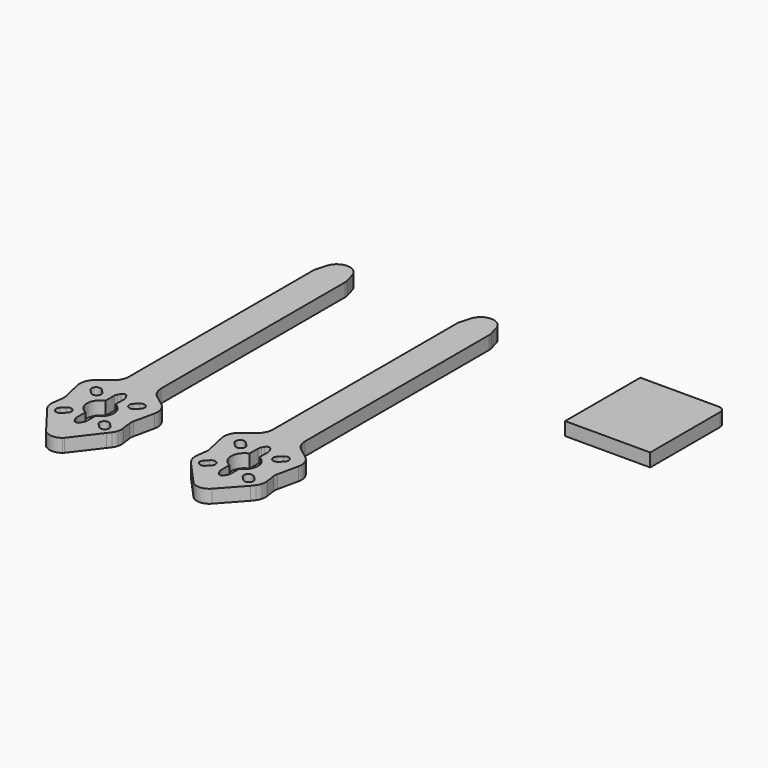
from build123d import *

# Parameters (mm, degrees)
F1_DEPTH = 4


with BuildPart() as f1:
    # F0 (on Top) → F1 (new body)
    with BuildSketch(Plane.XY):
        with BuildLine():
            ThreePointArc((-10.558655, -52.331149), (-10.284312, -53.070409), (-9.870278, -53.741488))
            Line((-9.870278, -53.741488), (-9.079032, -54.779026))
            Line((-9.079032, -54.779026), (-2.866229, -61.63786))
            ThreePointArc((-2.866229, -61.63786), (-0.099999, -62.864533), (2.666231, -61.63786))
            Line((2.666231, -61.63786), (8.879034, -54.779026))
            Line((8.879034, -54.779026), (9.67028, -53.741488))
            ThreePointArc((9.67028, -53.741488), (10.084314, -53.070409), (10.358657, -52.331149))
            ThreePointArc((10.358657, -52.331149), (10.512135, -51.366067), (10.472941, -50.389644))
            Line((10.472941, -50.389644), (10.083805, -47.608834))
            ThreePointArc((10.083805, -47.608834), (10.048183, -46.900192), (10.138329, -46.196405))
            Line((10.138329, -46.196405), (11.521367, -39.899416))
            ThreePointArc((11.521367, -39.899416), (11.332862, -37.257928), (9.738374, -35.143549))
            Line((9.738374, -35.143549), (6.780304, -32.932375))
            ThreePointArc((6.780304, -32.932375), (5.274798, -31.15986), (4.733962, -28.898034))
            Line((4.733962, -28.898034), (4.733962, -28.158009))
            Line((4.733962, -28.158009), (4.733962, -23.90792))
            Line((4.733962, -23.90792), (4.733962, 40.544426))
            ThreePointArc((4.733962, 40.544426), (4.69699, 41.087018), (4.586758, 41.61958))
            Line((4.586758, 41.61958), (3.773216, 44.534895))
            ThreePointArc((3.773216, 44.534895), (-0.057773, 47.459681), (-3.920425, 44.576841))
            Line((-3.920425, 44.576841), (-4.774804, 41.639293))
            ThreePointArc((-4.774804, 41.639293), (-4.893971, 41.086383), (-4.93396, 40.522192))
            Line((-4.93396, 40.522192), (-4.93396, -23.90792))
            Line((-4.93396, -23.90792), (-4.93396, -28.158009))
            Line((-4.93396, -28.158009), (-4.93396, -28.898034))
            ThreePointArc((-4.93396, -28.898034), (-5.474796, -31.15986), (-6.980302, -32.932375))
            Line((-6.980302, -32.932375), (-9.938372, -35.143549))
            ThreePointArc((-9.938372, -35.143549), (-11.53286, -37.257928), (-11.721365, -39.899416))
            Line((-11.721365, -39.899416), (-10.338327, -46.196405))
            ThreePointArc((-10.338327, -46.196405), (-10.248182, -46.900192), (-10.283803, -47.608834))
            Line((-10.283803, -47.608834), (-10.672939, -50.389644))
            ThreePointArc((-10.672939, -50.389644), (-10.712133, -51.366067), (-10.558655, -52.331149))
        make_face()
        with BuildLine():
            ThreePointArc((-6.711447, -50.502253), (-4.802259, -50.502253), (-4.802259, -52.411441))
            Line((-4.802259, -52.411441), (-5.862919, -53.472102))
            ThreePointArc((-5.862919, -53.472102), (-7.772108, -53.472102), (-7.772108, -51.562913))
            Line((-7.772108, -51.562913), (-6.711447, -50.502253))
        make_face(mode=Mode.SUBTRACT)
        with BuildLine():
            Line((5.662921, -53.472102), (4.602261, -52.411441))
            ThreePointArc((4.602261, -52.411441), (4.602261, -50.502253), (6.511449, -50.502253))
            Line((6.511449, -50.502253), (7.57211, -51.562913))
            ThreePointArc((7.57211, -51.562913), (7.57211, -53.472102), (5.662921, -53.472102))
        make_face(mode=Mode.SUBTRACT)
        with BuildLine():
            Line((1.400001, -49.586116), (1.400001, -52.782411))
            ThreePointArc((1.400001, -52.782411), (1.336215, -53.283486), (1.148925, -53.752599))
            Line((1.148925, -53.752599), (0.711944, -54.540329))
            ThreePointArc((0.711944, -54.540329), (-0.099999, -55.018422), (-0.911942, -54.540329))
            Line((-0.911942, -54.540329), (-1.348923, -53.752599))
            ThreePointArc((-1.348923, -53.752599), (-1.536213, -53.283486), (-1.599999, -52.782411))
            Line((-1.599999, -52.782411), (-1.599999, -49.586116))
            ThreePointArc((-1.599999, -49.586116), (-4.172434, -45.799993), (-1.599999, -42.01387))
            Line((-1.599999, -42.01387), (-1.599999, -38.817575))
            ThreePointArc((-1.599999, -38.817575), (-1.536213, -38.3165), (-1.348923, -37.847387))
            Line((-1.348923, -37.847387), (-0.911942, -37.059657))
            ThreePointArc((-0.911942, -37.059657), (-0.099999, -36.581564), (0.711944, -37.059657))
            Line((0.711944, -37.059657), (1.148925, -37.847387))
            ThreePointArc((1.148925, -37.847387), (1.336215, -38.3165), (1.400001, -38.817575))
            Line((1.400001, -38.817575), (1.400001, -42.01387))
            ThreePointArc((1.400001, -42.01387), (3.972436, -45.799993), (1.400001, -49.586116))
        make_face(mode=Mode.SUBTRACT)
        with BuildLine():
            ThreePointArc((-4.802259, -39.188545), (-4.802259, -41.097733), (-6.711447, -41.097733))
            Line((-6.711447, -41.097733), (-7.772108, -40.037073))
            ThreePointArc((-7.772108, -40.037073), (-7.772108, -38.127885), (-5.862919, -38.127885))
            Line((-5.862919, -38.127885), (-4.802259, -39.188545))
        make_face(mode=Mode.SUBTRACT)
        with BuildLine():
            Line((7.471188, -40.037073), (6.410528, -41.097733))
            ThreePointArc((6.410528, -41.097733), (4.50134, -41.097733), (4.50134, -39.188545))
            Line((4.50134, -39.188545), (5.562, -38.127885))
            ThreePointArc((5.562, -38.127885), (7.471188, -38.127885), (7.471188, -40.037073))
        make_face(mode=Mode.SUBTRACT)
        with BuildLine():
            Line((-2.866229, -61.63786), (-9.079032, -54.779026))
            Line((-9.079032, -54.779026), (-2.912687, -62.864774))
            ThreePointArc((-2.912687, -62.864774), (-2.727914, -63.074801), (-2.515644, -63.256993))
            ThreePointArc((-2.515644, -63.256993), (-0.099999, -64.056578), (2.315646, -63.256993))
            ThreePointArc((2.315646, -63.256993), (2.527916, -63.074801), (2.712689, -62.864774))
            Line((2.712689, -62.864774), (8.879034, -54.779026))
            Line((8.879034, -54.779026), (2.666231, -61.63786))
            ThreePointArc((2.666231, -61.63786), (-0.099999, -62.864533), (-2.866229, -61.63786))
        make_face()
        with BuildLine():
            ThreePointArc((32.874717, -52.189267), (33.14906, -52.928528), (33.563094, -53.599606))
            Line((33.563094, -53.599606), (34.35434, -54.637144))
            Line((34.35434, -54.637144), (40.567143, -61.495978))
            ThreePointArc((40.567143, -61.495978), (43.333373, -62.722652), (46.099603, -61.495978))
            Line((46.099603, -61.495978), (52.312406, -54.637144))
            Line((52.312406, -54.637144), (53.103652, -53.599606))
            ThreePointArc((53.103652, -53.599606), (53.517686, -52.928528), (53.792029, -52.189267))
            ThreePointArc((53.792029, -52.189267), (53.945507, -51.224186), (53.906313, -50.247763))
            Line((53.906313, -50.247763), (53.517177, -47.466953))
            ThreePointArc((53.517177, -47.466953), (53.481555, -46.75831), (53.571701, -46.054523))
            Line((53.571701, -46.054523), (54.954739, -39.757535))
            ThreePointArc((54.954739, -39.757535), (54.766234, -37.116047), (53.171745, -35.001667))
            Line((53.171745, -35.001667), (50.213676, -32.790494))
            ThreePointArc((50.213676, -32.790494), (48.70817, -31.017979), (48.167334, -28.756153))
            Line((48.167334, -28.756153), (48.167334, -28.016128))
            Line((48.167334, -28.016128), (48.167334, -23.766038))
            Line((48.167334, -23.766038), (48.167334, 40.686308))
            ThreePointArc((48.167334, 40.686308), (48.130362, 41.2289), (48.02013, 41.761462))
            Line((48.02013, 41.761462), (47.206588, 44.676777))
            ThreePointArc((47.206588, 44.676777), (43.375599, 47.601563), (39.512947, 44.718723))
            Line((39.512947, 44.718723), (38.658568, 41.781174))
            ThreePointArc((38.658568, 41.781174), (38.539401, 41.228265), (38.499412, 40.664074))
            Line((38.499412, 40.664074), (38.499412, -23.766038))
            Line((38.499412, -23.766038), (38.499412, -28.016128))
            Line((38.499412, -28.016128), (38.499412, -28.756153))
            ThreePointArc((38.499412, -28.756153), (37.958576, -31.017979), (36.45307, -32.790494))
            Line((36.45307, -32.790494), (33.495, -35.001667))
            ThreePointArc((33.495, -35.001667), (31.900512, -37.116047), (31.712007, -39.757535))
            Line((31.712007, -39.757535), (33.095045, -46.054523))
            ThreePointArc((33.095045, -46.054523), (33.18519, -46.75831), (33.149569, -47.466953))
            Line((33.149569, -47.466953), (32.760433, -50.247763))
            ThreePointArc((32.760433, -50.247763), (32.721239, -51.224186), (32.874717, -52.189267))
        make_face()
        with BuildLine():
            ThreePointArc((36.721925, -50.360372), (38.631113, -50.360372), (38.631113, -52.26956))
            Line((38.631113, -52.26956), (37.570453, -53.33022))
            ThreePointArc((37.570453, -53.33022), (35.661264, -53.33022), (35.661264, -51.421032))
            Line((35.661264, -51.421032), (36.721925, -50.360372))
        make_face(mode=Mode.SUBTRACT)
        with BuildLine():
            Line((49.096293, -53.33022), (48.035633, -52.26956))
            ThreePointArc((48.035633, -52.26956), (48.035633, -50.360372), (49.944821, -50.360372))
            Line((49.944821, -50.360372), (51.005481, -51.421032))
            ThreePointArc((51.005481, -51.421032), (51.005481, -53.33022), (49.096293, -53.33022))
        make_face(mode=Mode.SUBTRACT)
        with BuildLine():
            Line((44.833373, -49.444235), (44.833373, -52.640529))
            ThreePointArc((44.833373, -52.640529), (44.769587, -53.141604), (44.582297, -53.610718))
            Line((44.582297, -53.610718), (44.145316, -54.398447))
            ThreePointArc((44.145316, -54.398447), (43.333373, -54.87654), (42.52143, -54.398447))
            Line((42.52143, -54.398447), (42.084449, -53.610718))
            ThreePointArc((42.084449, -53.610718), (41.897159, -53.141604), (41.833373, -52.640529))
            Line((41.833373, -52.640529), (41.833373, -49.444235))
            ThreePointArc((41.833373, -49.444235), (39.260938, -45.658112), (41.833373, -41.871988))
            Line((41.833373, -41.871988), (41.833373, -38.675694))
            ThreePointArc((41.833373, -38.675694), (41.897159, -38.174619), (42.084449, -37.705506))
            Line((42.084449, -37.705506), (42.52143, -36.917776))
            ThreePointArc((42.52143, -36.917776), (43.333373, -36.439683), (44.145316, -36.917776))
            Line((44.145316, -36.917776), (44.582297, -37.705506))
            ThreePointArc((44.582297, -37.705506), (44.769587, -38.174619), (44.833373, -38.675694))
            Line((44.833373, -38.675694), (44.833373, -41.871988))
            ThreePointArc((44.833373, -41.871988), (47.405808, -45.658112), (44.833373, -49.444235))
        make_face(mode=Mode.SUBTRACT)
        with BuildLine():
            ThreePointArc((38.631113, -39.046663), (38.631113, -40.955851), (36.721925, -40.955851))
            Line((36.721925, -40.955851), (35.661264, -39.895191))
            ThreePointArc((35.661264, -39.895191), (35.661264, -37.986003), (37.570453, -37.986003))
            Line((37.570453, -37.986003), (38.631113, -39.046663))
        make_face(mode=Mode.SUBTRACT)
        with BuildLine():
            Line((50.90456, -39.895191), (49.8439, -40.955851))
            ThreePointArc((49.8439, -40.955851), (47.934712, -40.955851), (47.934712, -39.046663))
            Line((47.934712, -39.046663), (48.995372, -37.986003))
            ThreePointArc((48.995372, -37.986003), (50.90456, -37.986003), (50.90456, -39.895191))
        make_face(mode=Mode.SUBTRACT)
        with BuildLine():
            Line((113.379507, 46.067093), (89.653552, 46.067093))
            Line((89.653552, 46.067093), (89.653552, 17.641801))
            Line((89.653552, 17.641801), (115.379507, 17.641801))
            Line((115.379507, 17.641801), (115.379507, 44.067093))
            ThreePointArc((115.379507, 44.067093), (114.79372, 45.481306), (113.379507, 46.067093))
        make_face()
    extrude(amount=F1_DEPTH)


solid = f1.part
